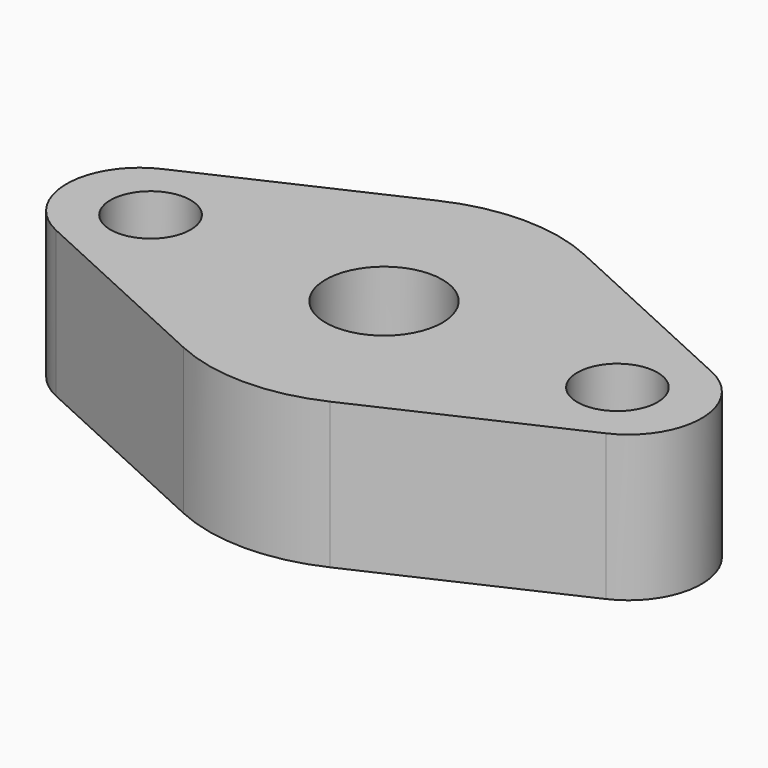
from build123d import *

# Parameters (mm, degrees)
SKETCH_R   = 4
SKETCH_R_2 = 2.75
PAD_DEPTH  = 5


with BuildPart() as part:
    # Sketch → Pad (new body, symmetric)
    with BuildSketch(Plane.XY):
        with BuildLine():
            ThreePointArc((18.848305, -4.543015), (21.76, 0), (18.848305, 4.543014))
            Line((5.011933, 10.903235), (18.848305, 4.543014))
            ThreePointArc((5.011933, 10.903235), (0, 12), (-5.011933, 10.903235))
            Line((-18.848305, 4.543014), (-5.011933, 10.903235))
            ThreePointArc((-18.848305, 4.543014), (-21.76, 1.3e-05), (-18.848328, -4.543004))
            Line((-18.848328, -4.543004), (-5.011941, -10.903231))
            ThreePointArc((-5.011941, -10.903231), (-1.2e-05, -12), (5.01192, -10.903241))
            Line((5.01192, -10.903241), (18.848305, -4.543015))
        make_face()
        Circle(SKETCH_R, mode=Mode.SUBTRACT)
        with Locations((-16, 0)):
            Circle(SKETCH_R_2, mode=Mode.SUBTRACT)
        with Locations((16, 0)):
            Circle(SKETCH_R_2, mode=Mode.SUBTRACT)
    extrude(amount=PAD_DEPTH, both=True)


solid = part.part
